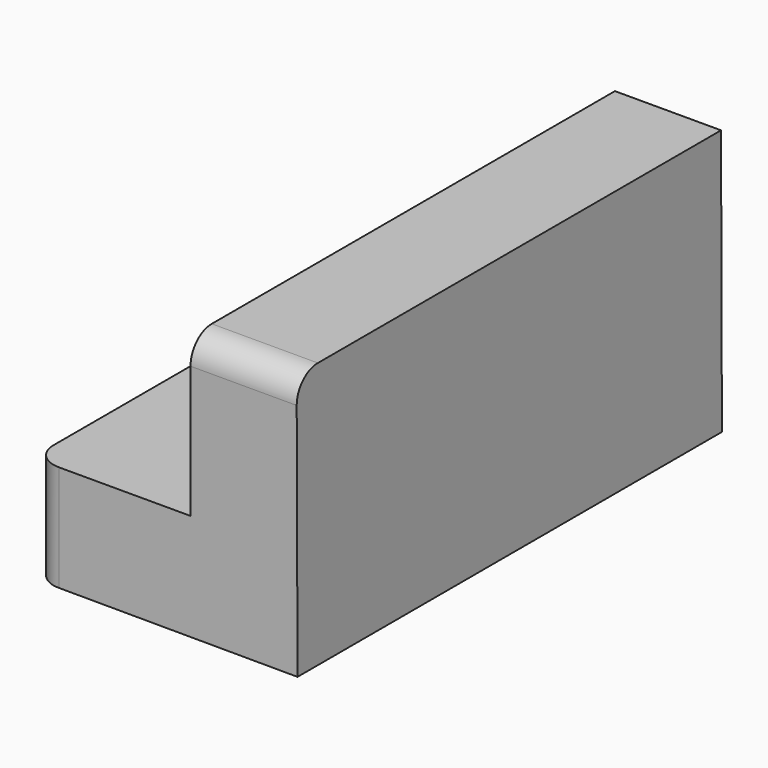
from build123d import *

# Parameters (mm, degrees)
F1_DEPTH = 100
F2_R     = 5
F3_R     = 5


with BuildPart() as f1:
    # F0 (on Front) → F1 (new body)
    with BuildSketch(Plane.XZ):
        Polygon((0, 29.845397), (0, 0), (-29.831411, 0), (-29.831411, -20), (20.16835, -20.15432), (20, 29.845397), align=None)
    extrude(amount=F1_DEPTH)

    # F2
    f2_edges = [f1.edges().sort_by_distance(p)[0] for p in [
        (10, -100, 29.845397),
    ]]
    fillet(f2_edges, radius=F2_R)

    # F3
    f3_edges = [f1.edges().sort_by_distance(p)[0] for p in [
        (-29.831411, -100, -10),
    ]]
    fillet(f3_edges, radius=F3_R)


solid = f1.part
